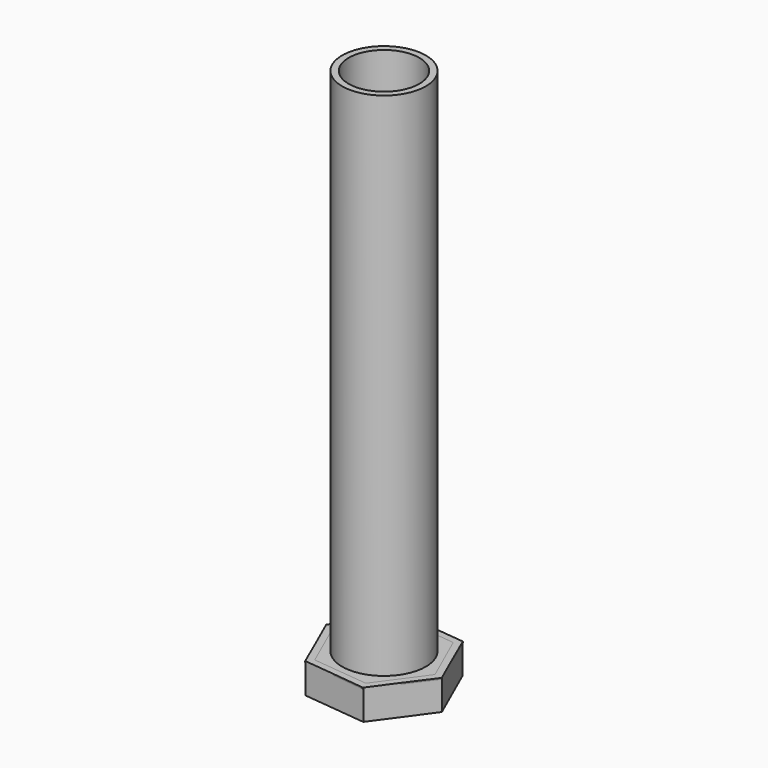
from build123d import *

# Parameters (mm, degrees)
F1_DEPTH  = 9.017
F2_R      = 12.4841
F2_R_2    = 10.5283
F3_DEPTH  = 152.4
F5_R      = 10.5283
F6_DEPTH  = 25.4
F8_DEPTH  = 0.381
F10_DEPTH = 0.381
F11_R     = 10.5283
F12_DEPTH = 25.4


with BuildPart() as f1:
    # F0 (on Top) → F1 (new body)
    with BuildSketch(Plane.XY):
        Polygon((7.6866848508, -17.3445983102), (18.8642051805, -2.0154348034), (11.1775203296, 15.3291635068), (-7.6866848508, 17.3445983102), (-18.8642051805, 2.0154348034), (-11.1775203296, -15.3291635068), align=None)
        Polygon((9.8469551345, 13.5043892428), (16.6186217141, -1.775518675), (6.7716665796, -15.2799079178), (-9.8469551345, -13.5043892428), (-16.6186217141, 1.775518675), (-6.7716665796, 15.2799079178), align=None, mode=Mode.SUBTRACT)
    extrude(amount=-F1_DEPTH)

    # F5 (on Top) → F6 (cut)
    with BuildSketch(Plane.XY):
        Circle(F5_R)
    extrude(amount=F6_DEPTH, mode=Mode.SUBTRACT)

    # F11 (on Top) → F12 (cut)
    with BuildSketch(Plane.XY):
        Circle(F11_R)
    extrude(amount=F12_DEPTH, mode=Mode.SUBTRACT)


with BuildPart() as f3:
    # F2 (on Top) → F3 (new body)
    with BuildSketch(Plane.XY):
        Circle(F2_R)
        Circle(F2_R_2, mode=Mode.SUBTRACT)
    extrude(amount=F3_DEPTH)


with BuildPart() as f8:
    # F7 (on Top) → F8 (new body)
    with BuildSketch(Plane.XY):
        Polygon((6.7719303097, -15.2797910366), (16.618652357, -1.7752318375), (9.8467220474, 13.5045591991), (-6.7719303097, 15.2797910366), (-16.618652357, 1.7752318375), (-9.8467220474, -13.5045591991), align=None)
    extrude(amount=-F8_DEPTH)


with BuildPart() as f10:
    # F9 (on Top) → F10 (new body)
    with BuildSketch(Plane.XY):
        Polygon((7.5533707782, -17.405507069), (18.8502966765, -2.1613425564), (11.2969258984, 15.2441645126), (-7.5533707782, 17.405507069), (-18.8502966765, 2.1613425564), (-11.2969258984, -15.2441645126), align=None)
        Polygon((9.8383313898, 13.5106731773), (16.6197518887, -1.7649083258), (6.7814204989, -15.2755815031), (-9.8383313898, -13.5106731773), (-16.6197518887, 1.7649083258), (-6.7814204989, 15.2755815031), align=None, mode=Mode.SUBTRACT)
    extrude(amount=-F10_DEPTH)


solid = Compound([f1.part, f3.part, f8.part, f10.part])
